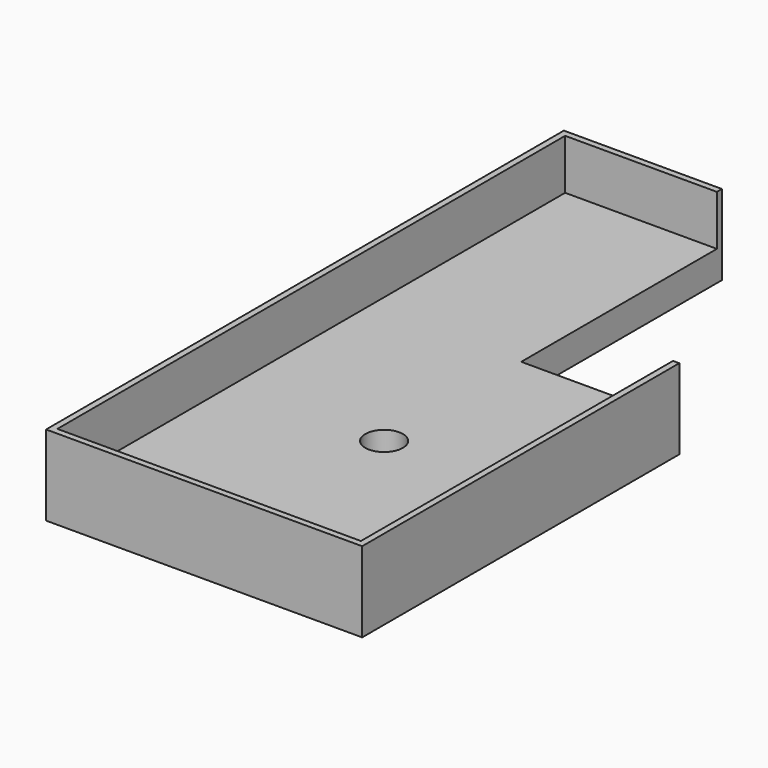
from build123d import *

# Parameters (mm, degrees)
F1_DEPTH = 6
F2_W     = 1.25
F2_H     = 126.5
F2_H_2   = 1.25
F2_H_3   = 77.75
F3_DEPTH = 10
F4_R     = 3.75
F5_DEPTH = 4
F6_R     = 2.1
F7_DEPTH = 2


with BuildPart() as f1:
    # F0 (on Top) → F1 (new body)
    with BuildSketch(Plane.XY):
        Polygon((-31.5, -64.5), (31.5, -64.5), (31.5, 14.5), (0, 14.5), (0, 64.5), (-31.5, 64.5), align=None)
    extrude(amount=F1_DEPTH)

    # F2 (on face) → F3 (join)
    with BuildSketch(Plane.XY.offset(6)):
        Polygon((0, 64.5), (-31.5, 64.5), (-31.5, 63.25), (-30.25, 63.25), (-29, 63.25), (0, 63.25), align=None)
        with Locations((-30.875, 0)):
            Rectangle(F2_W, F2_H)
        with Locations((-30.875, -63.875)):
            Rectangle(F2_W, F2_H_2)
        Polygon((30.25, -63.25), (-30.25, -63.25), (-30.25, -64.5), (31.5, -64.5), (31.5, -63.25), align=None)
        with Locations((30.875, -24.375)):
            Rectangle(F2_W, F2_H_3)
    extrude(amount=F3_DEPTH)

    # F4 (on face) → F5 (cut)
    with BuildSketch(Plane.XY.offset(6)):
        with Locations((0, -19.654689)):
            Circle(F4_R)
    extrude(amount=-F5_DEPTH, mode=Mode.SUBTRACT)

    # F6 (on face) → F7 (cut, through all)
    with BuildSketch(Plane.XY.offset(2)):
        with Locations((0, -19.654689)):
            Circle(F6_R)
    extrude(amount=-F7_DEPTH, mode=Mode.SUBTRACT)


solid = f1.part
